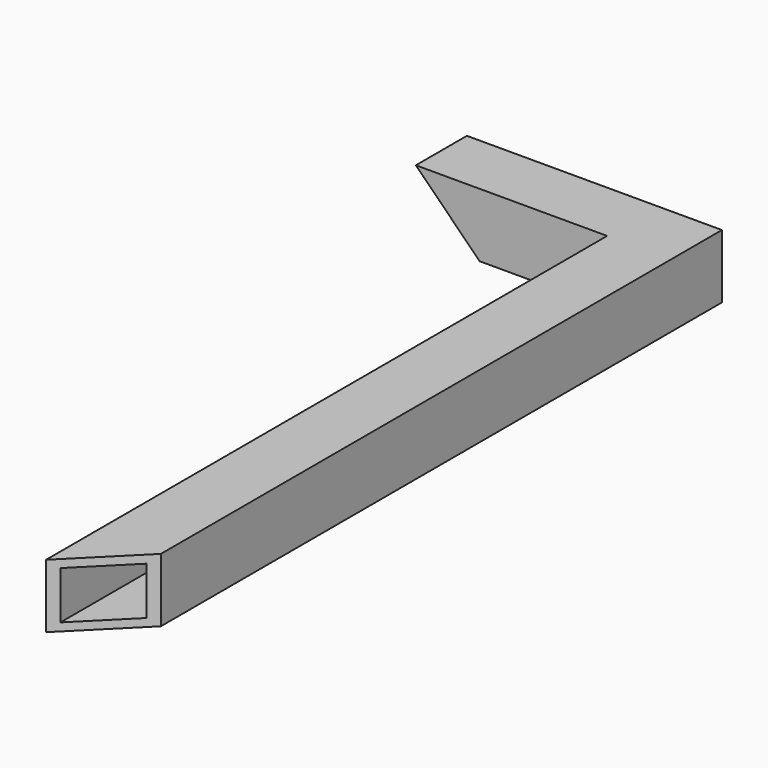
from build123d import *

# Parameters (mm, degrees)
F1_W     = 50.8
F1_H     = 50.8
F1_W_2   = 38.1
F1_H_2   = 38.1
F4_DEPTH = 50.801
F6_DEPTH = 609.601


with BuildPart() as f2:
    # F2: sweep along a path in F0
    with BuildLine(Plane.XY) as f2_path:
        Line((0, 0), (0, 584.2))
        Line((0, 584.2), (-177.8, 584.2))
    # F1 (on Front) → F2 (sweep)
    with BuildSketch(Plane.XZ):
        Rectangle(F1_W, F1_H)
        Rectangle(F1_W_2, F1_H_2, mode=Mode.SUBTRACT)
    sweep(path=f2_path.line, transition=Transition.RIGHT)

    # F3 (on face) → F4 (cut, through all)
    with BuildSketch(Plane.XY.offset(25.4)):
        Polygon((-25.4, 0), (25.4, 0), (25.4, 50.8), align=None)
    extrude(amount=-F4_DEPTH, mode=Mode.SUBTRACT)

    # F5 (on face) → F6 (cut, through all)
    with BuildSketch(Plane(origin=(0, 609.6, 0), x_dir=(-1, 0, 0), z_dir=(0, 1, 0))):
        Polygon((177.8, -25.4), (177.8, 25.4), (127, -25.4), align=None)
    extrude(amount=-F6_DEPTH, mode=Mode.SUBTRACT)


solid = f2.part
